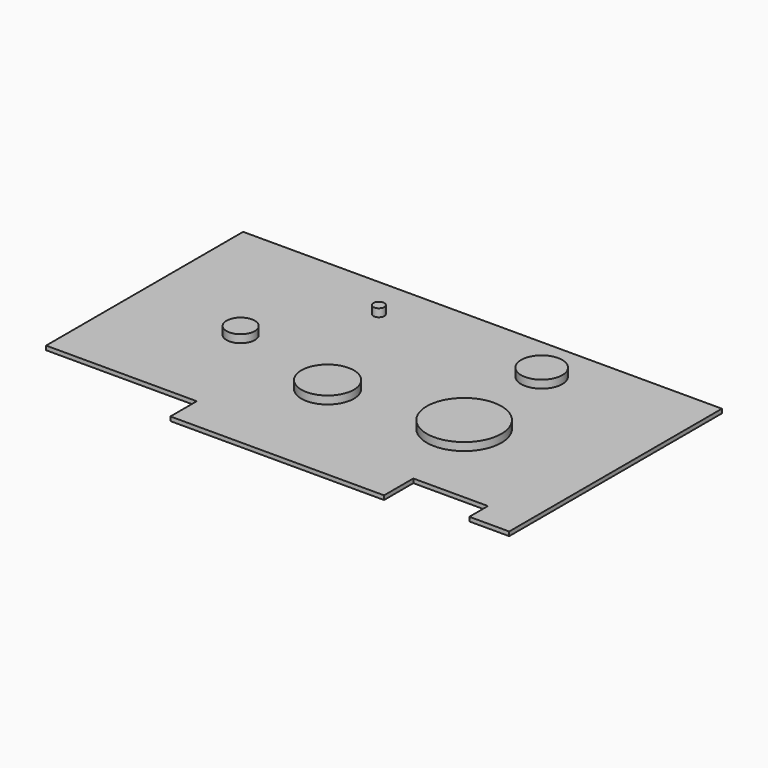
from build123d import *

# Parameters (mm, degrees)
PAD_DEPTH     = 1.65
SKETCH001_R   = 2.195453
SKETCH001_R_2 = 8.192022
SKETCH001_R_3 = 5.613861
SKETCH001_R_4 = 14.865337
SKETCH001_R_5 = 10.448492
PAD001_DEPTH  = 3.15
SKETCH002_W   = 13.5
SKETCH002_H   = 13
PAD002_DEPTH  = 9.6


with BuildPart() as part:
    # Sketch → Pad (new body)
    with BuildSketch(Plane.XY):
        Polygon((-110.5, 50), (80, 50), (80, -55.8), (64.15, -55.8), (64.15, -46.55), (34.45, -46.55), (34.45, -61.1), (-50.55, -61.1), (-50.55, -48), (-110.5, -48), align=None)
    extrude(amount=PAD_DEPTH)

    # Sketch001 (on Face12 of Pad) → Pad001 (join)
    with BuildSketch(Plane.XY.offset(1.65)):
        with Locations((-43.015316, 33.133453)):
            Circle(SKETCH001_R)
        with Locations((22.746756, 31.915638)):
            Circle(SKETCH001_R_2)
        with Locations((-67.77758, -4.618844)):
            Circle(SKETCH001_R_3)
        with Locations((25.994263, -10.707931)):
            Circle(SKETCH001_R_4)
        with Locations((-23.936199, -16.188095)):
            Circle(SKETCH001_R_5)
    extrude(amount=PAD001_DEPTH)

    # Sketch002 (on Face4 of Pad001) → Pad002 (join)
    with BuildSketch(Plane(origin=(0, 0, 0), x_dir=(1, 0, 0), z_dir=(0, 0, -1))):
        with Locations((-102.75, -43.5)):
            Rectangle(SKETCH002_W, SKETCH002_H)
    extrude(amount=PAD002_DEPTH)


solid = part.part
